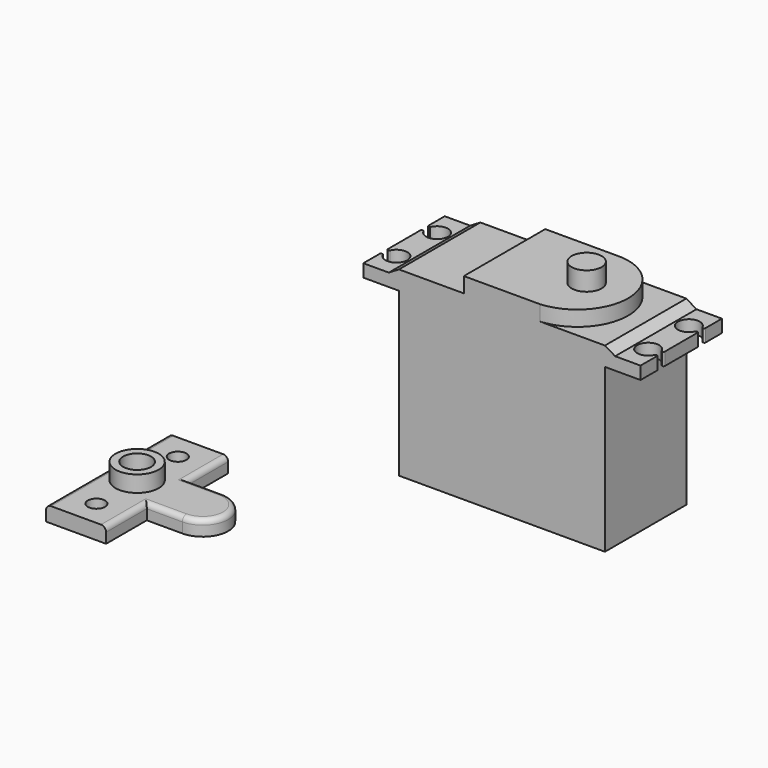
from build123d import *

# Parameters (mm, degrees)
F0_W      = 40.5
F0_H      = 20
F1_DEPTH  = 32
F2_W      = 54.5
F2_H      = 20
F3_DEPTH  = 3.7
F5_DEPTH  = 20.001
F6_R      = 2.15
F7_DEPTH  = 34.501
F8_W      = 6
F8_H      = 1.5
F9_DEPTH  = 34.501
F10_R     = 0.2
F11_R     = 0.2
F13_DEPTH = 3
F14_R     = 2.95
F15_DEPTH = 3.7
F17_DEPTH = 3
F18_R     = 1
F19_R     = 4.25
F19_R_2   = 2.75
F20_DEPTH = 3.2
F21_R     = 1.5
F22_DEPTH = 3.001
F23_R     = 1.7
F24_DEPTH = 3.001


with BuildPart() as f1:
    # F0 (on Top) → F1 (new body)
    with BuildSketch(Plane.XY):
        Rectangle(F0_W, F0_H)
    extrude(amount=F1_DEPTH)

    # F2 (on face) → F3 (join)
    with BuildSketch(Plane.XY.offset(32)):
        Rectangle(F2_W, F2_H)
    extrude(amount=F3_DEPTH)

    # F4 (on face) → F5 (cut, through all)
    with BuildSketch(Plane.XZ.offset(10)):
        Polygon((27.25, 35.7), (20.25, 35.7), (22.25, 34.5), (27.25, 34.5), align=None)
        Polygon((-20.25, 35.7), (-27.25, 35.7), (-27.25, 34.5), (-22.25, 34.5), align=None)
    extrude(amount=-F5_DEPTH, mode=Mode.SUBTRACT)

    # F6 (on face) → F7 (cut, through all)
    with BuildSketch(Plane.XY.offset(34.5)):
        with Locations((24.75, 5)):
            Circle(F6_R)
        with Locations((24.75, -5)):
            Circle(F6_R)
        with Locations((-24.75, 5)):
            Circle(F6_R)
        with Locations((-24.75, -5)):
            Circle(F6_R)
    extrude(amount=-F7_DEPTH, mode=Mode.SUBTRACT)

    # F8 (on face) → F9 (cut, through all)
    with BuildSketch(Plane.XY.offset(34.5)):
        with BuildLine():
            Line((-25.3537583657, 5.75), (-25.3537583657, 4.25))
            Line((-25.3537583657, 4.25), (-26.764944168, 4.25))
            ThreePointArc((-26.764944168, 4.25), (-24.3689684797, 2.8840333224), (-22.6, 5))
            ThreePointArc((-22.6, 5), (-24.3689684797, 7.1159666776), (-26.764944168, 5.75))
            Line((-26.764944168, 5.75), (-25.3537583657, 5.75))
        make_face()
        with BuildLine():
            Line((-26.764944168, 4.25), (-25.3537583657, 4.25))
            Line((-25.3537583657, 4.25), (-25.3537583657, 5.75))
            Line((-25.3537583657, 5.75), (-26.764944168, 5.75))
            ThreePointArc((-26.764944168, 5.75), (-26.9, 5), (-26.764944168, 4.25))
        make_face()
        with BuildLine():
            Line((-31.3537583657, 4.25), (-26.764944168, 4.25))
            ThreePointArc((-26.764944168, 4.25), (-26.9, 5), (-26.764944168, 5.75))
            Line((-26.764944168, 5.75), (-31.3537583657, 5.75))
            Line((-31.3537583657, 5.75), (-31.3537583657, 4.25))
        make_face()
        with Locations((-28.3537583657, -5)):
            Rectangle(F8_W, F8_H)
        with Locations((28.3537583657, 5)):
            Rectangle(F8_W, F8_H)
        with Locations((28.3537583657, -5)):
            Rectangle(F8_W, F8_H)
    extrude(amount=-F9_DEPTH, mode=Mode.SUBTRACT)

    # F10
    f10_edges = [f1.edges().sort_by_distance(p)[0] for p in [
        (27.25, 5.75, 33.25),
        (26.764944, 5.75, 33.25),
        (26.764944, 4.25, 33.25),
        (27.25, 4.25, 33.25),
        (27.25, -4.25, 33.25),
        (26.764944, -4.25, 33.25),
        (26.764944, -5.75, 33.25),
        (27.25, -5.75, 33.25),
    ]]
    fillet(f10_edges, radius=F10_R)

    # F11
    f11_edges = [f1.edges().sort_by_distance(p)[0] for p in [
        (-26.764944, 4.25, 33.25),
        (-27.25, 4.25, 33.25),
        (-27.25, -5.75, 33.25),
        (-26.764944, -5.75, 33.25),
        (-27.25, 5.75, 33.25),
        (-27.25, -4.25, 33.25),
        (-26.764944, -4.25, 33.25),
    ]]
    fillet(f11_edges, radius=F11_R)

    # F12 (on face) → F13 (join)
    with BuildSketch(Plane.XY.offset(35.7)):
        with BuildLine():
            ThreePointArc((7.5114076026, -10), (16.8288590177, 0), (7.5114076026, 10))
            Line((7.5114076026, 10), (-7.4885923974, 10))
            Line((-7.4885923974, 10), (-7.4885923974, -10))
            Line((-7.4885923974, -10), (7.5114076026, -10))
        make_face()
    extrude(amount=F13_DEPTH)

    # F14 (on face) → F15 (join)
    with BuildSketch(Plane.XY.offset(38.7)):
        with Locations((8.65, 0)):
            Circle(F14_R)
    extrude(amount=F15_DEPTH)


with BuildPart() as f17:
    # F16 (on Top) → F17 (new body)
    with BuildSketch(Plane.XY):
        with BuildLine():
            Line((-41.2075029179, -25.7820094952), (-53.0075029179, -25.7820094952))
            Line((-53.0075029179, -25.7820094952), (-53.0075029179, -55.7820094952))
            Line((-53.0075029179, -55.7820094952), (-41.2075029179, -55.7820094952))
            Line((-41.2075029179, -55.7820094952), (-41.2075029179, -45.7820094952))
            Line((-41.2075029179, -45.7820094952), (-34.2075029179, -45.7820094952))
            ThreePointArc((-34.2075029179, -45.7820094952), (-29.2075029179, -40.7820094952), (-34.2075029179, -35.7820094952))
            Line((-34.2075029179, -35.7820094952), (-41.2075029179, -35.7820094952))
            Line((-41.2075029179, -35.7820094952), (-41.2075029179, -25.7820094952))
        make_face()
    extrude(amount=F17_DEPTH)

    # F18
    f18_edges = [f17.edges().sort_by_distance(p)[0] for p in [
        (-53.007503, -40.782009, 3),
        (-37.707503, -35.782009, 3),
        (-41.207503, -30.782009, 3),
        (-41.207503, -50.782009, 3),
    ]]
    fillet(f18_edges, radius=F18_R)

    # F19 (on face) → F20 (join)
    with BuildSketch(Plane.XY.offset(3)):
        with Locations((-47.1075029179, -40.7820094952)):
            Circle(F19_R)
        with Locations((-47.1075029179, -40.7820094952)):
            Circle(F19_R_2, mode=Mode.SUBTRACT)
    extrude(amount=F20_DEPTH)

    # F21 (on face) → F22 (cut, through all)
    with BuildSketch(Plane.XY.offset(3)):
        with Locations((-47.1075029179, -40.7820094952)):
            Circle(F21_R)
    extrude(amount=-F22_DEPTH, mode=Mode.SUBTRACT)

    # F23 (on face) → F24 (cut, through all)
    with BuildSketch(Plane.XY.offset(3)):
        with Locations((-47.1075029179, -30.7820094952)):
            Circle(F23_R)
        with Locations((-47.1075029179, -50.7820094952)):
            Circle(F23_R)
    extrude(amount=-F24_DEPTH, mode=Mode.SUBTRACT)


solid = Compound([f1.part, f17.part])
